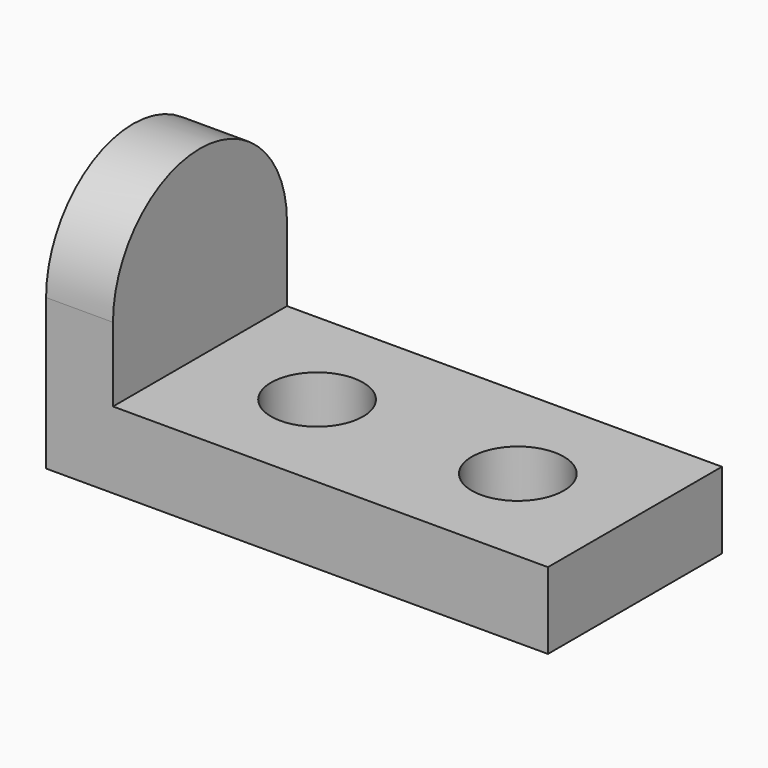
from build123d import *

# Parameters (mm, degrees)
F1_DEPTH = 82.55
F3_DEPTH = 190.501
F4_R     = 17.4625
F5_DEPTH = 29.01032


with BuildPart() as f1:
    # F0 (on Front) → F1 (new body)
    with BuildSketch(Plane.XZ):
        Polygon((0, 101.6), (0, 0), (190.5, 0), (190.5, 29.00932), (25.4, 29.00932), (25.4, 101.6), align=None)
    extrude(amount=F1_DEPTH)

    # F2 (on face) → F3 (cut, through all)
    with BuildSketch(Plane(origin=(0, 0, 0), x_dir=(0, -1, 0), z_dir=(-1, 0, 0))):
        with BuildLine():
            Line((0, 101.6), (0, 57.15))
            ThreePointArc((0, 57.15), (41.275, 98.425), (82.55, 57.15))
            Line((82.55, 57.15), (82.55, 101.6))
            Line((82.55, 101.6), (0, 101.6))
        make_face()
    extrude(amount=-F3_DEPTH, mode=Mode.SUBTRACT)

    # F4 (on face) → F5 (cut, through all)
    with BuildSketch(Plane.XY.offset(29.00932)):
        with Locations((69.85, -41.275)):
            Circle(F4_R)
        with Locations((146.05, -41.275)):
            Circle(F4_R)
    extrude(amount=-F5_DEPTH, mode=Mode.SUBTRACT)


solid = f1.part
